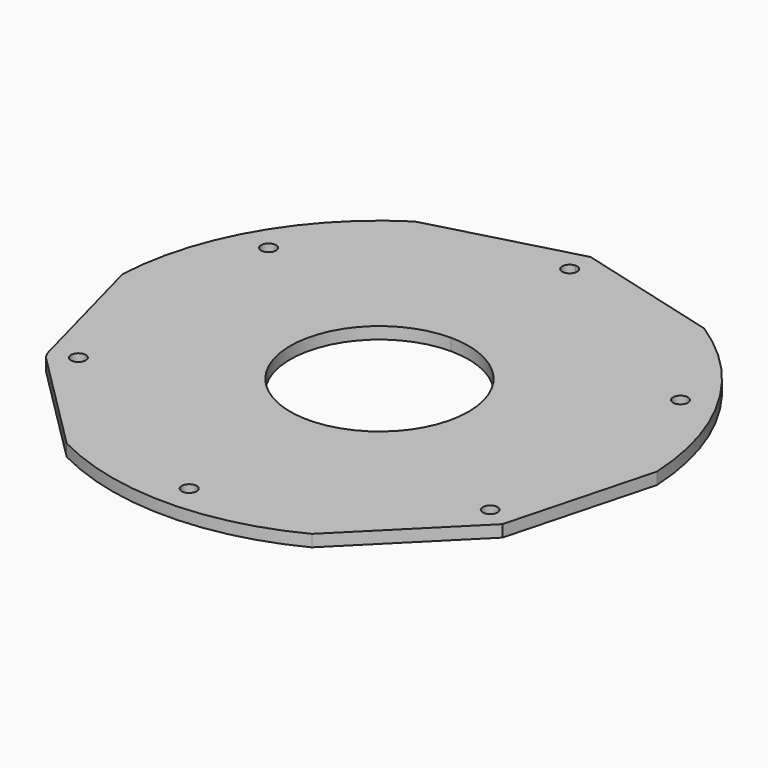
from build123d import *

# Parameters (mm, degrees)
F0_R     = 1.5875
F1_DEPTH = 2.54
F2_R     = 5.08


with BuildPart() as f1:
    # F0 (on Top) → F1 (new body)
    with BuildSketch(Plane.XY):
        with BuildLine():
            Line((30.90323, 48.074035), (0, 56.374997))
            Line((0, 56.374997), (-30.90323, 48.074035))
            ThreePointArc((-30.90323, 48.074035), (-49.493352, 28.575), (-57.084951, 2.725965))
            Line((-57.084951, 2.725965), (-48.822179, -28.187498))
            Line((-48.822179, -28.187498), (-26.181721, -50.8))
            ThreePointArc((-26.181721, -50.8), (0, -57.15), (26.181721, -50.8))
            Line((26.181721, -50.8), (48.822179, -28.187498))
            Line((48.822179, -28.187498), (57.084951, 2.725965))
            ThreePointArc((57.084951, 2.725965), (49.493352, 28.575), (30.90323, 48.074035))
        make_face()
        with Locations((-43.994091, -25.4)):
            Circle(F0_R, mode=Mode.SUBTRACT)
        with Locations((0, -50.8)):
            Circle(F0_R, mode=Mode.SUBTRACT)
        with Locations((43.994091, -25.4)):
            Circle(F0_R, mode=Mode.SUBTRACT)
        with Locations((-43.994091, 25.4)):
            Circle(F0_R, mode=Mode.SUBTRACT)
        with BuildLine():
            ThreePointArc((47.625, 0), (-33.67596, -33.67596), (0, 47.625))
            ThreePointArc((0, 47.625), (33.67596, 33.67596), (47.625, 0))
        make_face(mode=Mode.SUBTRACT)
        with Locations((43.994091, 25.4)):
            Circle(F0_R, mode=Mode.SUBTRACT)
        with BuildLine():
            ThreePointArc((1.5875, 50.8), (1.122532, 49.677468), (0, 49.2125))
            ThreePointArc((0, 49.2125), (-1.5875, 50.8), (0, 52.3875))
            ThreePointArc((0, 52.3875), (1.122532, 51.922532), (1.5875, 50.8))
        make_face(mode=Mode.SUBTRACT)
        with BuildLine():
            ThreePointArc((47.625, 0), (33.67596, 33.67596), (0, 47.625))
            ThreePointArc((0, 47.625), (-33.67596, -33.67596), (47.625, 0))
        make_face()
        with BuildLine():
            ThreePointArc((19.05, 0), (-13.470384, -13.470384), (0, 19.05))
            ThreePointArc((0, 19.05), (13.470384, 13.470384), (19.05, 0))
        make_face(mode=Mode.SUBTRACT)
    extrude(amount=F1_DEPTH)

    # F2
    f2_edges = [f1.edges().sort_by_distance(p)[0] for p in [
        (-48.822179, -28.187498, 1.27),
    ]]
    fillet(f2_edges, radius=F2_R)


solid = f1.part
